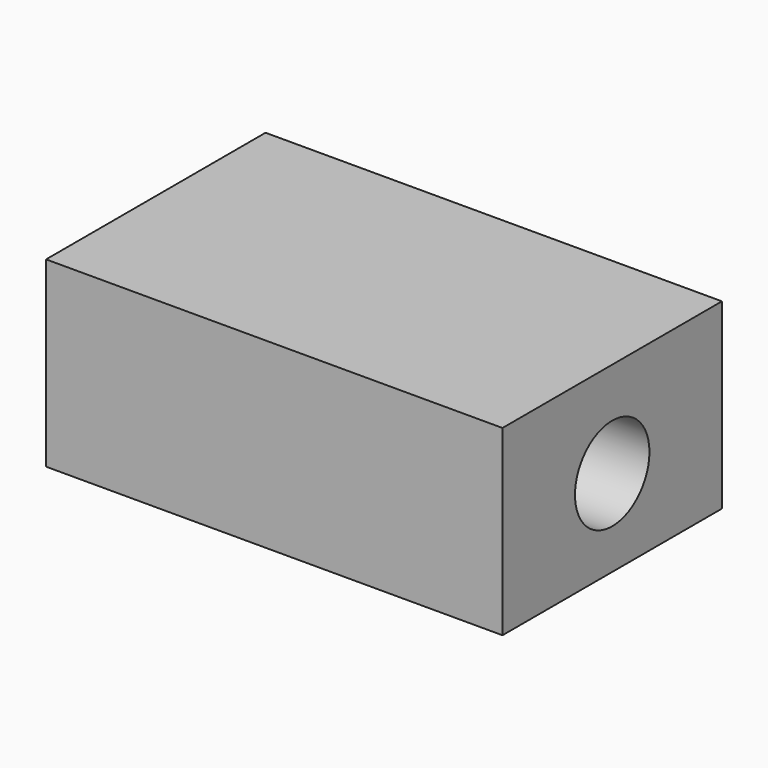
from build123d import *

# Parameters (mm, degrees)
F0_W     = 127.038773
F0_H     = 76.345419
F1_DEPTH = 50.8
F2_R     = 12.7
F3_DEPTH = 38.1
F4_R     = 12.954324
F5_DEPTH = 76.2


with BuildPart() as f1:
    # F0 (on Top) → F1 (new body)
    with BuildSketch(Plane.XY):
        with Locations((30.385473, 9.924905)):
            Rectangle(F0_W, F0_H)
    extrude(amount=F1_DEPTH)

    # F2 (on face) → F3 (cut)
    with BuildSketch(Plane.XY):
        with Locations((30.40486, 9.852195)):
            Circle(F2_R)
    extrude(amount=F3_DEPTH, mode=Mode.SUBTRACT)

    # F4 (on face) → F5 (cut)
    with BuildSketch(Plane.YZ.offset(93.90486)):
        with Locations((9.924904, 24.137359)):
            Circle(F4_R)
    extrude(amount=-F5_DEPTH, mode=Mode.SUBTRACT)


solid = f1.part
